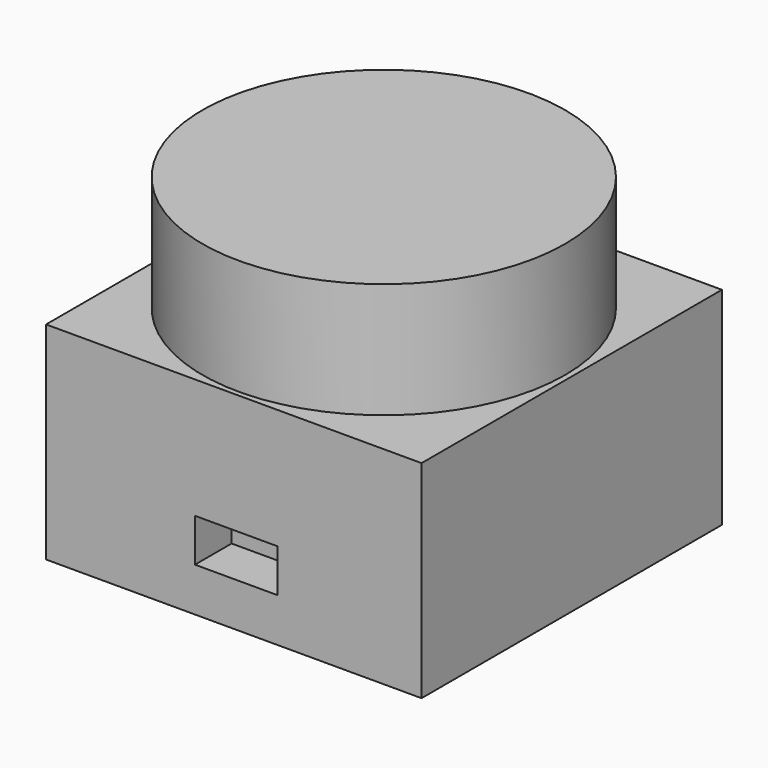
from build123d import *

# Parameters (mm, degrees)
SKETCH039_W     = 41
SKETCH039_H     = 41
PAD016_DEPTH    = 22.6
SKETCH040_R     = 19.8
PAD017_DEPTH    = 12.6
SKETCH041_W     = 9
SKETCH041_H     = 4.7
POCKET006_DEPTH = 5


with BuildPart() as part:
    # Sketch039 → Pad016 (new body)
    with BuildSketch(Plane.XY):
        with Locations((3.199544, 3.041725)):
            Rectangle(SKETCH039_W, SKETCH039_H)
    extrude(amount=PAD016_DEPTH)

    # Sketch040 (on Face6 of Pad016) → Pad017 (join)
    with BuildSketch(Plane.XY.offset(22.6)):
        with Locations((3.297032, 2.892403)):
            Circle(SKETCH040_R)
    extrude(amount=PAD017_DEPTH)

    # Sketch041 (on Face3 of Pad017) → Pocket006 (cut)
    with BuildSketch(Plane.XZ.offset(17.458275)):
        with Locations((3.457133, 7.14271)):
            Rectangle(SKETCH041_W, SKETCH041_H)
    extrude(amount=-POCKET006_DEPTH, mode=Mode.SUBTRACT)


with BuildPart() as part_1:
    # Body003 placement: moved
    add(part.part.moved(Location((0, 0, 53))))


solid = part_1.part
